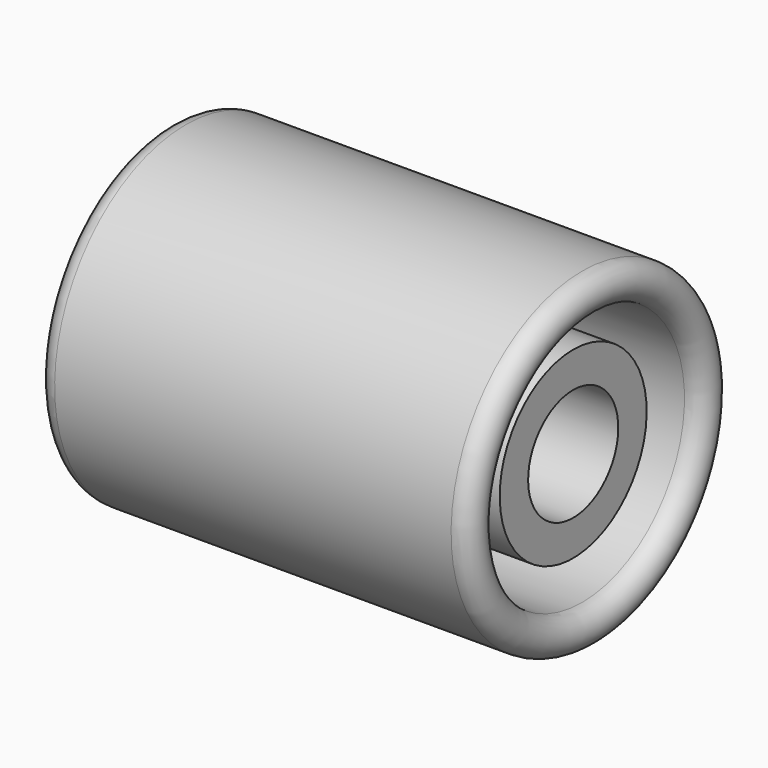
from build123d import *


with BuildPart() as f2:
    # F0 (on Front) → F2 (revolve)
    with BuildSketch(Plane.XZ):
        with BuildLine():
            Line((31.9825133782, 27.2891572416), (-34.0174866218, 27.2891572416))
            ThreePointArc((-34.0174866218, 27.2891572416), (-37.0174866218, 24.2891572416), (-34.0174866218, 21.2891572416))
            Line((-34.0174866218, 21.2891572416), (-10.0174866218, 21.2891572416))
            ThreePointArc((-10.0174866218, 21.2891572416), (-7.0174866218, 18.2891572416), (-10.0174866218, 15.2891572416))
            Line((-10.0174866218, 15.2891572416), (-32.51748716, 15.2891572416))
            Line((-32.51748716, 15.2891572416), (-32.51748716, 9.3777362813))
            Line((-32.51748716, 9.3777362813), (30.48251284, 9.3777362813))
            Line((30.48251284, 9.3777362813), (30.4825139164, 15.2891572416))
            Line((30.4825139164, 15.2891572416), (7.9825133782, 15.2891572416))
            ThreePointArc((7.9825133782, 15.2891572416), (4.9825133782, 18.2891572416), (7.9825133782, 21.2891572416))
            Line((7.9825133782, 21.2891572416), (31.9825133782, 21.2891572416))
            ThreePointArc((31.9825133782, 21.2891572416), (34.9825133782, 24.2891572416), (31.9825133782, 27.2891572416))
        make_face()
    revolve(axis=Axis((0, 0, 0), (1, 0, 0)))


solid = f2.part
